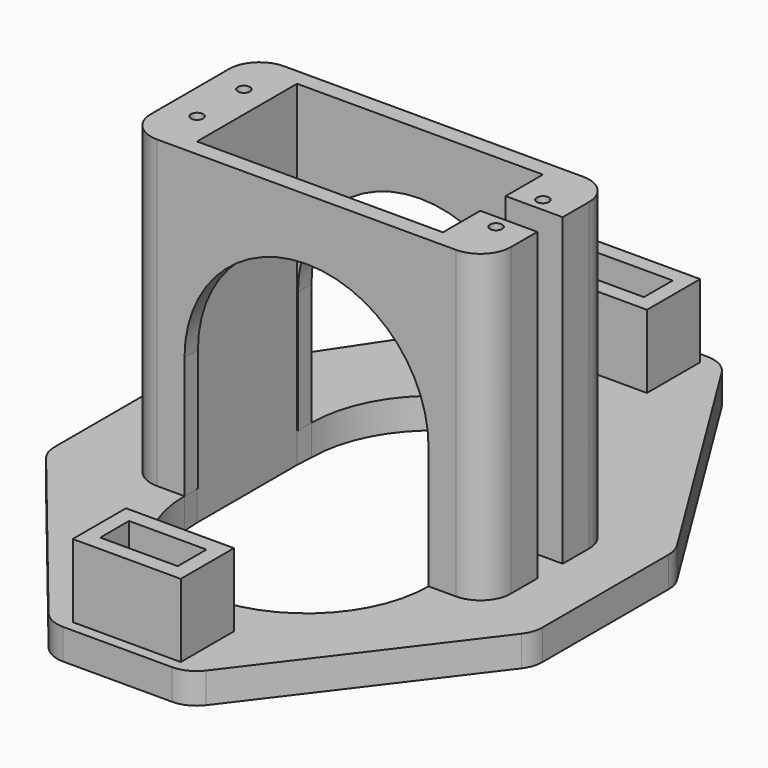
from build123d import *

# Parameters (mm, degrees)
SKETCH_W        = 80
SKETCH_H        = 110
PAD_DEPTH       = 5
SKETCH001_W     = 8
SKETCH001_H     = 3.5
PAD001_DEPTH    = 20
SKETCH002_W     = 59
SKETCH002_H     = 26
PAD002_DEPTH    = 50
SKETCH003_W     = 40.3
SKETCH003_H     = 20.5
POCKET_DEPTH    = 55.001
SKETCH004_W     = 5.2
SKETCH004_H     = 50
POCKET001_DEPTH = 10
SKETCH005_R     = 1
POCKET002_DEPTH = 10
SKETCH006_W     = 17.7
SKETCH006_H     = 10.9
SKETCH006_W_2   = 12.7
SKETCH006_H_2   = 5.9
PAD003_DEPTH    = 12
SKETCH007_W     = 8
SKETCH007_H     = 3.5
POCKET003_DEPTH = 20
POCKET004_DEPTH = 5
POCKET005_DEPTH = 5
POCKET006_DEPTH = 26
POCKET007_DEPTH = 5
FILLET_R        = 5
FILLET001_R     = 5
SKETCH012_R     = 2.25
POCKET008_DEPTH = 5


with BuildPart() as part:
    # Sketch → Pad (new body)
    with BuildSketch(Plane.XY):
        Rectangle(SKETCH_W, SKETCH_H)
    extrude(amount=PAD_DEPTH)

    # Sketch001 (on Face6 of Pad) → Pad001 (join)
    with BuildSketch(Plane.XY.offset(5)):
        with Locations((1, 47.75)):
            Rectangle(SKETCH001_W, SKETCH001_H)
        with Locations((1, -47.75)):
            Rectangle(SKETCH001_W, SKETCH001_H)
    extrude(amount=PAD001_DEPTH)

    # Sketch002 (on Face5 of Pad001) → Pad002 (join)
    with BuildSketch(Plane.XY.offset(5)):
        with Locations((1.5, -4)):
            Rectangle(SKETCH002_W, SKETCH002_H)
    extrude(amount=PAD002_DEPTH)

    # Sketch003 (on Face4 of Pad002) → Pocket (cut, through all)
    with BuildSketch(Plane(origin=(0, 0, 0), x_dir=(1, 0, 0), z_dir=(0, 0, -1))):
        with Locations((1.5, 4)):
            Rectangle(SKETCH003_W, SKETCH003_H)
    extrude(amount=-POCKET_DEPTH, mode=Mode.SUBTRACT)

    # Sketch004 (on Face17 of Pocket) → Pocket001 (cut)
    with BuildSketch(Plane.YZ.offset(31)):
        with Locations((-4, 30)):
            Rectangle(SKETCH004_W, SKETCH004_H)
    extrude(amount=-POCKET001_DEPTH, mode=Mode.SUBTRACT)

    # Sketch005 (on Face25 of Pocket001) → Pocket002 (cut)
    with BuildSketch(Plane.XY.offset(55)):
        with Locations((-23, 0.8)):
            Circle(SKETCH005_R)
        with Locations((-23, -8.8)):
            Circle(SKETCH005_R)
        with Locations((26, -8.8)):
            Circle(SKETCH005_R)
        with Locations((26, 0.8)):
            Circle(SKETCH005_R)
    extrude(amount=-POCKET002_DEPTH, mode=Mode.SUBTRACT)

    # Sketch006 (on Face5 of Pocket002) → Pad003 (join)
    with BuildSketch(Plane.XY.offset(5)):
        with Locations((1, 47.75)):
            Rectangle(SKETCH006_W, SKETCH006_H)
        with Locations((1, 47.75)):
            Rectangle(SKETCH006_W_2, SKETCH006_H_2, mode=Mode.SUBTRACT)
        with Locations((1, -47.75)):
            Rectangle(SKETCH006_W, SKETCH006_H)
        with Locations((1, -47.75)):
            Rectangle(SKETCH006_W_2, SKETCH006_H_2, mode=Mode.SUBTRACT)
    extrude(amount=PAD003_DEPTH)

    # Sketch007 (on Face57 of Pad003) → Pocket003 (cut)
    with BuildSketch(Plane.XY.offset(25)):
        with Locations((1, -47.75)):
            Rectangle(SKETCH007_W, SKETCH007_H)
        with Locations((1, 47.75)):
            Rectangle(SKETCH007_W, SKETCH007_H)
    extrude(amount=-POCKET003_DEPTH, mode=Mode.SUBTRACT)

    # Sketch008 (on Face5 of Pocket003) → Pocket004 (cut)
    with BuildSketch(Plane.XY.offset(5)):
        Polygon((-40, 55), (-10.35, 55), (-40, 10.5), align=None)
        Polygon((-40, -18.5), (-40, -55), (-10.35, -55), align=None)
        Polygon((40, -18.5), (40, -55), (12.35, -55), align=None)
        Polygon((40, 10.5), (40, 55), (12.35, 55), align=None)
    extrude(amount=-POCKET004_DEPTH, mode=Mode.SUBTRACT)

    # Sketch009 (on Face4 of Pocket004) → Pocket005 (cut)
    with BuildSketch(Plane.XY.offset(5)):
        with BuildLine():
            Line((-18.5, 9), (21.5, 9))
            ThreePointArc((21.5, 9), (1.5, 29), (-18.5, 9))
        make_face()
        with BuildLine():
            Line((-18.5, -17), (21.5, -17))
            ThreePointArc((-18.5, -17), (1.5, -37.000028), (21.5, -17))
        make_face()
    extrude(amount=-POCKET005_DEPTH, mode=Mode.SUBTRACT)

    # Sketch010 (on Face27 of Pocket005) → Pocket006 (cut)
    with BuildSketch(Plane(origin=(0, 9, 0), x_dir=(-1, 0, 0), z_dir=(0, 1, 0))):
        with BuildLine():
            Line((-21.5, 5), (-21.5, 25))
            ThreePointArc((18.5, 25), (-1.5, 45), (-21.5, 25))
            Line((18.5, 5), (18.5, 25))
            Line((-21.5, 5), (18.5, 5))
        make_face()
    extrude(amount=-POCKET006_DEPTH, mode=Mode.SUBTRACT)

    # Sketch011 (on Face2 of Pocket006) → Pocket007 (cut)
    with BuildSketch(Plane(origin=(0, 0, 0), x_dir=(1, 0, 0), z_dir=(0, 0, -1))):
        Polygon((-18.5, 17), (-18.65, 14.25), (-18.65, -6.25), (-18.5, -9), (21.5, -9), (21.65, -6.25), (21.65, 14.25), (21.5, 17), align=None)
    extrude(amount=-POCKET007_DEPTH, mode=Mode.SUBTRACT)

    # Fillet
    fillet_edges = [part.edges().sort_by_distance(p)[0] for p in [
        (40, -18.5, 2.5),
        (40, 10.5, 2.5),
        (12.35, -55, 2.5),
        (-10.35, -55, 2.5),
        (-10.35, 55, 2.5),
        (12.35, 55, 2.5),
        (-40, -18.5, 2.5),
        (-40, 10.5, 2.5),
    ]]
    fillet(fillet_edges, radius=FILLET_R)

    # Fillet001
    fillet001_edges = [part.edges().sort_by_distance(p)[0] for p in [
        (-28, -17, 30),
        (-28, 9, 30),
        (31, -17, 30),
        (31, 9, 30),
    ]]
    fillet(fillet001_edges, radius=FILLET001_R)

    # Sketch012 (on Face81 of Fillet001) → Pocket008 (cut)
    with BuildSketch(Plane.XY.offset(5)):
        with Locations((1, 47.75)):
            Circle(SKETCH012_R)
        with Locations((1, -47.75)):
            Circle(SKETCH012_R)
    extrude(amount=-POCKET008_DEPTH, mode=Mode.SUBTRACT)


solid = part.part
